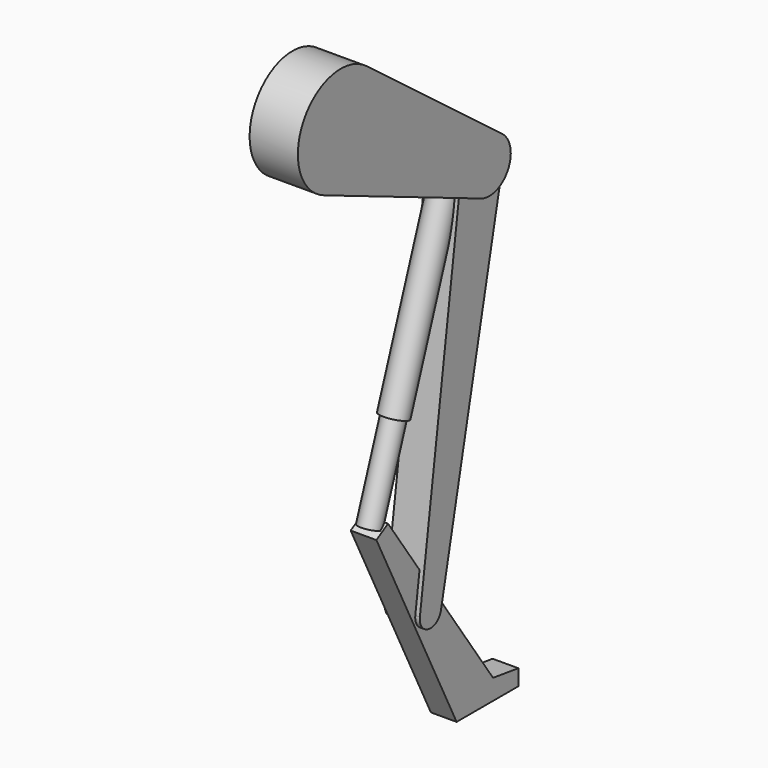
from build123d import *

# Parameters (mm, degrees)
F1_DEPTH = 11.43
F2_DEPTH = 8.255
F3_DEPTH = 6.096


with BuildPart() as f1:
    # F0 (on Right) → F1 (new body, symmetric)
    with BuildSketch(Plane.YZ):
        with BuildLine():
            ThreePointArc((-65.9911357684, 38.1), (-63.4536650368, 44.2259962544), (-62.5881810245, 50.8))
            ThreePointArc((-62.5881810245, 50.8), (-65.2389992765, 62.097554151), (-72.6381597485, 71.0370167472))
            ThreePointArc((-72.6381597485, 71.0370167472), (-109.9852262806, 63.5), (-97.8389409864, 27.3879832528))
            ThreePointArc((-97.8389409864, 27.3879832528), (-79.890657495, 26.7253221685), (-65.9911357684, 38.1))
        make_face()
        with BuildLine():
            ThreePointArc((-72.6381597485, 71.0370167472), (-65.2389992765, 62.097554151), (-62.5881810245, 50.8))
            ThreePointArc((-62.5881810245, 50.8), (-63.4536650368, 44.2259962544), (-65.9911357684, 38.1))
            Line((-65.9911357684, 38.1), (-10.9985226281, 6.35))
            ThreePointArc((-10.9985226281, 6.35), (-2.5123389157, 12.4490221774), (7.675010638, 10.1185083736))
            Line((7.675010638, 10.1185083736), (-72.6381597485, 71.0370167472))
        make_face()
        with BuildLine():
            Line((-10.9985226281, 6.35), (-65.9911357684, 38.1))
            ThreePointArc((-65.9911357684, 38.1), (-79.890657495, 26.7253221685), (-97.8389409864, 27.3879832528))
            Line((-97.8389409864, 27.3879832528), (-13.9294910287, -7.9174694553))
            Line((-13.9294910287, -7.9174694553), (-12.5778413298, 1.7572442865))
            ThreePointArc((-12.5778413298, 1.7572442865), (-12.0097704237, 4.1298201378), (-10.9985226281, 6.35))
        make_face()
        with BuildLine():
            Line((-12.5778413298, 1.7572442865), (-13.9294910287, -7.9174694553))
            Line((-13.9294910287, -7.9174694553), (-4.925379981, -11.7060083736))
            ThreePointArc((-4.925379981, -11.7060083736), (-11.0410815644, -6.2757085567), (-12.5778413298, 1.7572442865))
        make_face()
        with BuildLine():
            Line((0, 0), (-10.9985226281, 6.35))
            ThreePointArc((-10.9985226281, 6.35), (-12.0097704237, 4.1298201378), (-12.5778413298, 1.7572442865))
            ThreePointArc((-12.5778413298, 1.7572442865), (-11.0410815644, -6.2757085567), (-4.925379981, -11.7060083736))
            ThreePointArc((-4.925379981, -11.7060083736), (-3.587782482, -12.1826851253), (-2.2053318564, -12.5070584633))
            Line((-2.2053318564, -12.5070584633), (0, 0))
        make_face()
        with BuildLine():
            ThreePointArc((12.7, 0), (11.374590874, 5.6487770755), (7.675010638, 10.1185083736))
            ThreePointArc((7.675010638, 10.1185083736), (-2.5123389157, 12.4490221774), (-10.9985226281, 6.35))
            Line((-10.9985226281, 6.35), (0, 0))
            Line((0, 0), (-2.2053318564, -12.5070584633))
            ThreePointArc((-2.2053318564, -12.5070584633), (7.097457242, -10.5316713155), (12.4203176258, -2.6506056054))
            ThreePointArc((12.4203176258, -2.6506056054), (12.6298858634, -1.3326601504), (12.7, 0))
        make_face()
    extrude(amount=F1_DEPTH, both=True)


with BuildPart() as f2:
    # F0 (on Right) → F2 (new body, symmetric)
    with BuildSketch(Plane.YZ):
        with BuildLine():
            ThreePointArc((12.7, 0), (11.374590874, 5.6487770755), (7.675010638, 10.1185083736))
            ThreePointArc((7.675010638, 10.1185083736), (-2.5123389157, 12.4490221774), (-10.9985226281, 6.35))
            Line((-10.9985226281, 6.35), (0, 0))
            Line((0, 0), (-2.2053318564, -12.5070584633))
            ThreePointArc((-2.2053318564, -12.5070584633), (7.097457242, -10.5316713155), (12.4203176258, -2.6506056054))
            ThreePointArc((12.4203176258, -2.6506056054), (12.6298858634, -1.3326601504), (12.7, 0))
        make_face()
        with BuildLine():
            Line((0, 0), (-10.9985226281, 6.35))
            ThreePointArc((-10.9985226281, 6.35), (-12.0097704237, 4.1298201378), (-12.5778413298, 1.7572442865))
            ThreePointArc((-12.5778413298, 1.7572442865), (-11.0410815644, -6.2757085567), (-4.925379981, -11.7060083736))
            ThreePointArc((-4.925379981, -11.7060083736), (-3.587782482, -12.1826851253), (-2.2053318564, -12.5070584633))
            Line((-2.2053318564, -12.5070584633), (0, 0))
        make_face()
        with BuildLine():
            Line((-23.723489121, -172.0147535919), (12.4203176258, -2.6506056054))
            ThreePointArc((12.4203176258, -2.6506056054), (7.097457242, -10.5316713155), (-2.2053318564, -12.5070584633))
            Line((-2.2053318564, -12.5070584633), (-28.992237411, -164.4231489389))
            Line((-28.992237411, -164.4231489389), (-23.723489121, -172.0147535919))
        make_face()
        with BuildLine():
            Line((-4.925379981, -11.7060083736), (-13.9294910287, -7.9174694553))
            Line((-13.9294910287, -7.9174694553), (-34.6549081477, -156.2639515077))
            Line((-34.6549081477, -156.2639515077), (-28.992237411, -164.4231489389))
            Line((-28.992237411, -164.4231489389), (-2.2053318564, -12.5070584633))
            ThreePointArc((-2.2053318564, -12.5070584633), (-3.587782482, -12.1826851253), (-4.925379981, -11.7060083736))
        make_face()
        with BuildLine():
            Line((-12.5778413298, 1.7572442865), (-13.9294910287, -7.9174694553))
            Line((-13.9294910287, -7.9174694553), (-4.925379981, -11.7060083736))
            ThreePointArc((-4.925379981, -11.7060083736), (-11.0410815644, -6.2757085567), (-12.5778413298, 1.7572442865))
        make_face()
        with BuildLine():
            Line((-30.8746459892, -175.0988184856), (-34.1112782872, -169.6356041051))
            ThreePointArc((-34.1112782872, -169.6356041051), (-36.1603494719, -171.5797506129), (-37.1635666541, -174.2201963423))
            ThreePointArc((-37.1635666541, -174.2201963423), (-34.4239015535, -180.3642989897), (-27.7007466935, -180.5987151447))
            Line((-27.7007466935, -180.5987151447), (-30.8746459892, -175.0988184856))
        make_face()
        with BuildLine():
            Line((-28.992237411, -164.4231489389), (-34.6549081477, -156.2639515077))
            Line((-34.6549081477, -156.2639515077), (-36.0628382689, -166.341504073))
            Line((-36.0628382689, -166.341504073), (-34.1112782872, -169.6356041051))
            ThreePointArc((-34.1112782872, -169.6356041051), (-32.0124519954, -168.8515872995), (-29.771980061, -168.8452892539))
            Line((-29.771980061, -168.8452892539), (-28.992237411, -164.4231489389))
        make_face()
        with BuildLine():
            Line((-34.1112782872, -169.6356041051), (-36.0628382689, -166.341504073))
            Line((-36.0628382689, -166.341504073), (-37.1635666541, -174.2201963423))
            ThreePointArc((-37.1635666541, -174.2201963423), (-36.1603494719, -171.5797506129), (-34.1112782872, -169.6356041051))
        make_face()
        with BuildLine():
            Line((-23.723489121, -172.0147535919), (-28.992237411, -164.4231489389))
            Line((-28.992237411, -164.4231489389), (-29.771980061, -168.8452892539))
            ThreePointArc((-29.771980061, -168.8452892539), (-26.0102637754, -171.0171171641), (-24.5246459892, -175.0988184856))
            ThreePointArc((-24.5246459892, -175.0988184856), (-24.5597030575, -175.7651485608), (-24.6644871763, -176.4241212882))
            Line((-24.6644871763, -176.4241212882), (-23.723489121, -172.0147535919))
        make_face()
        with BuildLine():
            ThreePointArc((-24.5246459892, -175.0988184856), (-26.0102637754, -171.0171171641), (-29.771980061, -168.8452892539))
            Line((-29.771980061, -168.8452892539), (-30.8746459892, -175.0988184856))
            Line((-30.8746459892, -175.0988184856), (-27.7007466935, -180.5987151447))
            ThreePointArc((-27.7007466935, -180.5987151447), (-25.7392837709, -178.8338626469), (-24.6644871763, -176.4241212882))
            ThreePointArc((-24.6644871763, -176.4241212882), (-24.5597030575, -175.7651485608), (-24.5246459892, -175.0988184856))
        make_face()
        with BuildLine():
            ThreePointArc((-29.771980061, -168.8452892539), (-32.0124519954, -168.8515872995), (-34.1112782872, -169.6356041051))
            Line((-34.1112782872, -169.6356041051), (-30.8746459892, -175.0988184856))
            Line((-30.8746459892, -175.0988184856), (-29.771980061, -168.8452892539))
        make_face()
        with BuildLine():
            Line((-23.723489121, -172.0147535919), (-28.992237411, -164.4231489389))
            Line((-28.992237411, -164.4231489389), (-29.771980061, -168.8452892539))
            ThreePointArc((-29.771980061, -168.8452892539), (-26.0102637754, -171.0171171641), (-24.5246459892, -175.0988184856))
            ThreePointArc((-24.5246459892, -175.0988184856), (-24.5597030575, -175.7651485608), (-24.6644871763, -176.4241212882))
            Line((-24.6644871763, -176.4241212882), (-23.723489121, -172.0147535919))
        make_face()
    extrude(amount=F2_DEPTH, both=True)


with BuildPart() as f3:
    # F0 (on Right) → F3 (new body, symmetric)
    with BuildSketch(Plane.YZ):
        with BuildLine():
            Line((-37.1635666541, -174.2201963423), (-36.0628382689, -166.341504073))
            Line((-36.0628382689, -166.341504073), (-56.7677043733, -131.3931034415))
            Line((-56.7677043733, -131.3931034415), (-60.2058892669, -133.4300252055))
            Line((-60.2058892669, -133.4300252055), (-12.7, -228.6))
            Line((-12.7, -228.6), (0, -228.6))
            Line((0, -228.6), (-27.7007466935, -180.5987151447))
            ThreePointArc((-27.7007466935, -180.5987151447), (-34.4239015535, -180.3642989897), (-37.1635666541, -174.2201963423))
        make_face()
        Polygon((-36.0628382689, -166.341504073), (-34.6549081477, -156.2639515077), (-53.3295194797, -129.3561816774), (-56.7677043733, -131.3931034415), align=None)
        with BuildLine():
            Line((-28.992237411, -164.4231489389), (-34.6549081477, -156.2639515077))
            Line((-34.6549081477, -156.2639515077), (-36.0628382689, -166.341504073))
            Line((-36.0628382689, -166.341504073), (-34.1112782872, -169.6356041051))
            ThreePointArc((-34.1112782872, -169.6356041051), (-32.0124519954, -168.8515872995), (-29.771980061, -168.8452892539))
            Line((-29.771980061, -168.8452892539), (-28.992237411, -164.4231489389))
        make_face()
        with BuildLine():
            Line((-34.1112782872, -169.6356041051), (-36.0628382689, -166.341504073))
            Line((-36.0628382689, -166.341504073), (-37.1635666541, -174.2201963423))
            ThreePointArc((-37.1635666541, -174.2201963423), (-36.1603494719, -171.5797506129), (-34.1112782872, -169.6356041051))
        make_face()
        with BuildLine():
            Line((-30.8746459892, -175.0988184856), (-34.1112782872, -169.6356041051))
            ThreePointArc((-34.1112782872, -169.6356041051), (-36.1603494719, -171.5797506129), (-37.1635666541, -174.2201963423))
            ThreePointArc((-37.1635666541, -174.2201963423), (-34.4239015535, -180.3642989897), (-27.7007466935, -180.5987151447))
            Line((-27.7007466935, -180.5987151447), (-30.8746459892, -175.0988184856))
        make_face()
        with BuildLine():
            ThreePointArc((-29.771980061, -168.8452892539), (-32.0124519954, -168.8515872995), (-34.1112782872, -169.6356041051))
            Line((-34.1112782872, -169.6356041051), (-30.8746459892, -175.0988184856))
            Line((-30.8746459892, -175.0988184856), (-29.771980061, -168.8452892539))
        make_face()
        with BuildLine():
            Line((-23.723489121, -172.0147535919), (-28.992237411, -164.4231489389))
            Line((-28.992237411, -164.4231489389), (-29.771980061, -168.8452892539))
            ThreePointArc((-29.771980061, -168.8452892539), (-26.0102637754, -171.0171171641), (-24.5246459892, -175.0988184856))
            ThreePointArc((-24.5246459892, -175.0988184856), (-24.5597030575, -175.7651485608), (-24.6644871763, -176.4241212882))
            Line((-24.6644871763, -176.4241212882), (-23.723489121, -172.0147535919))
        make_face()
        with BuildLine():
            ThreePointArc((-24.5246459892, -175.0988184856), (-26.0102637754, -171.0171171641), (-29.771980061, -168.8452892539))
            Line((-29.771980061, -168.8452892539), (-30.8746459892, -175.0988184856))
            Line((-30.8746459892, -175.0988184856), (-27.7007466935, -180.5987151447))
            ThreePointArc((-27.7007466935, -180.5987151447), (-25.7392837709, -178.8338626469), (-24.6644871763, -176.4241212882))
            ThreePointArc((-24.6644871763, -176.4241212882), (-24.5597030575, -175.7651485608), (-24.5246459892, -175.0988184856))
        make_face()
        with BuildLine():
            Line((8.8639849224, -218.9692114556), (-23.723489121, -172.0147535919))
            Line((-23.723489121, -172.0147535919), (-24.6644871763, -176.4241212882))
            ThreePointArc((-24.6644871763, -176.4241212882), (-25.7392837709, -178.8338626469), (-27.7007466935, -180.5987151447))
            Line((-27.7007466935, -180.5987151447), (0, -228.6))
            Line((0, -228.6), (23.8561810277, -228.6))
            Line((23.8561810277, -228.6), (23.8561810277, -221.0637641104))
            Line((23.8561810277, -221.0637641104), (8.8639849224, -218.9692114556))
        make_face()
    extrude(amount=F3_DEPTH, both=True)


with BuildPart() as f5:
    # F4 (on Right) → F5 (revolve)
    with BuildSketch(Plane.YZ):
        Polygon((-48.3406871308, -88.8051672484), (-47.1442994072, -89.2312616215), (-27.4657054166, -33.977708061), (-22.6801545222, -35.6820855535), (-8.2711986617, 4.7753787739), (-14.2531372797, 6.9058506396), align=None)
        Polygon((-47.1442994072, -89.2312616215), (-42.3587485128, -90.9356391141), (-22.6801545222, -35.6820855535), (-27.4657054166, -33.977708061), align=None)
    revolve(axis=Axis((0, -25.3149735873, -43.0801301701), (0, 0.3355073804, 0.9420375776)))


with BuildPart() as f6:
    # F4 (on Right) → F6 (revolve)
    with BuildSketch(Plane.YZ):
        Polygon((-47.1442994072, -89.2312616215), (-42.3587485128, -90.9356391141), (-22.6801545222, -35.6820855535), (-27.4657054166, -33.977708061), align=None)
        Polygon((-61.5532552677, -129.6887259489), (-56.7677043733, -131.3931034415), (-42.3587485128, -90.9356391141), (-47.1442994072, -89.2312616215), align=None)
    revolve(axis=Axis((0, -39.7239294478, -83.5375944975), (0, 0.3355073804, 0.9420375776)))


solid = Compound([f1.part, f2.part, f3.part, f5.part, f6.part])
